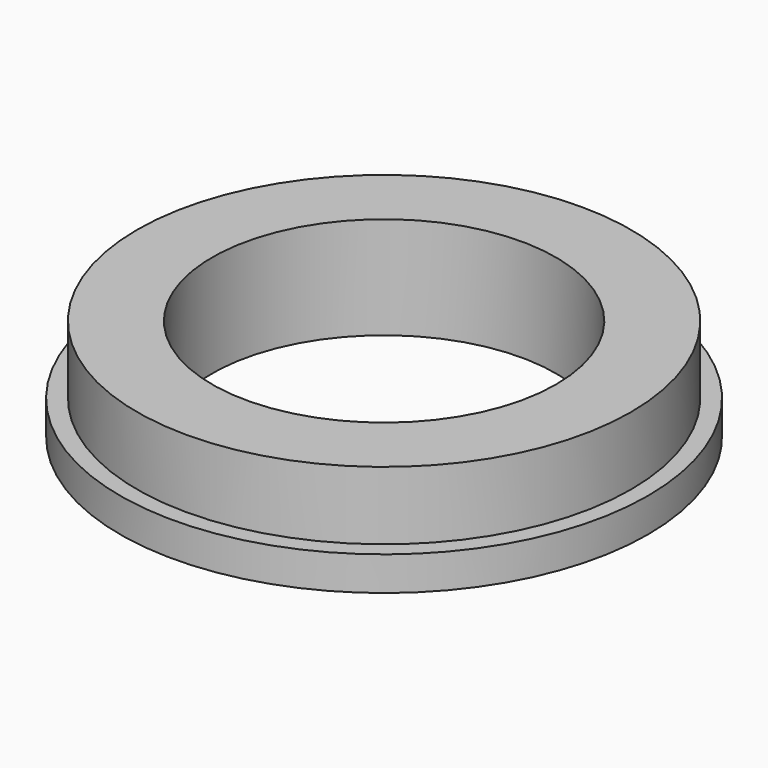
from build123d import *

# Parameters (mm, degrees)
F0_R        = 29
F0_R_2      = 20.2
F1_DEPTH    = 8
F0_R_3      = 31
F1_FACE_R   = 29
F1_FACE_R_2 = 20.2
F2_DEPTH    = 4


with BuildPart() as f1:
    # F0 (on Top) → F1 (new body)
    with BuildSketch(Plane.XY):
        Circle(F0_R)
        Circle(F0_R_2, mode=Mode.SUBTRACT)
    extrude(amount=F1_DEPTH)

    # F0 (on Top) + F1_face (on face) → F2 (join)
    with BuildSketch(Plane.XY):
        Circle(F0_R_3)
        Circle(F0_R, mode=Mode.SUBTRACT)
    with BuildSketch(Plane(origin=(0, 0, 0), x_dir=(1, 0, 0), z_dir=(0, 0, -1))):
        Circle(F1_FACE_R)
        Circle(F1_FACE_R_2, mode=Mode.SUBTRACT)
    extrude(amount=-F2_DEPTH, dir=(0, 0, 1))


solid = f1.part
